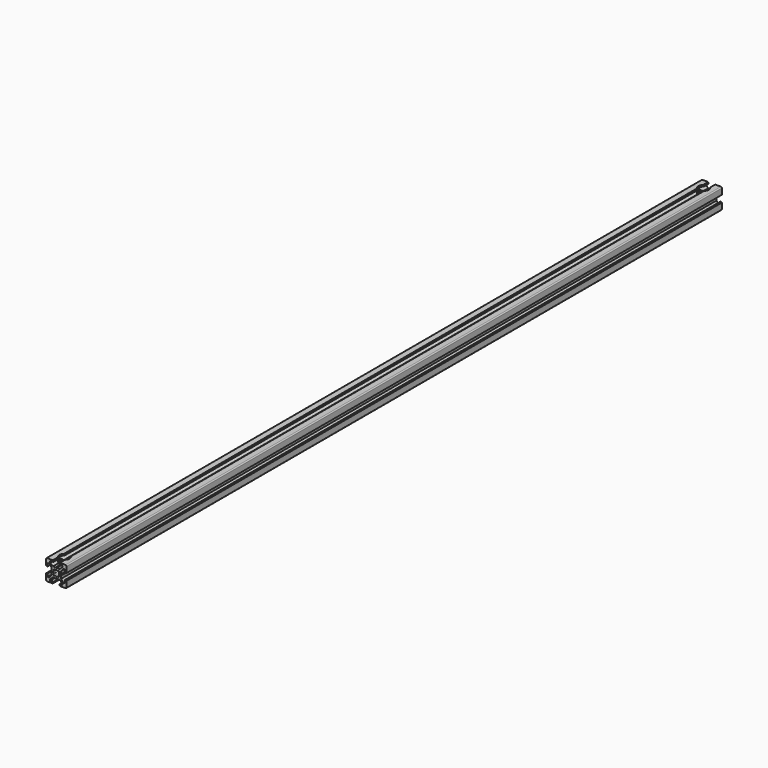
from build123d import *

# Parameters (mm, degrees)
PAD_DEPTH          = 800
POCKET_DEPTH       = 800
POLARPATTERN_COUNT = 4
POCKET001_DEPTH    = 800
SKETCH003_R        = 3.1
POCKET002_DEPTH    = 20
SKETCH004_R        = 5
POCKET003_DEPTH    = 5


with BuildPart() as part:
    # Sketch → Pad (new body)
    with BuildSketch(Plane(origin=(0, 0, 0), x_dir=(-1, 0, 0), z_dir=(0, 1, 0))):
        with BuildLine():
            Line((-9, 10), (9, 10))
            ThreePointArc((10, 9), (9.707107, 9.707107), (9, 10))
            Line((10, 9), (10, -9))
            ThreePointArc((9, -10), (9.707107, -9.707107), (10, -9))
            Line((9, -10), (-9, -10))
            ThreePointArc((-10, -9), (-9.707107, -9.707107), (-9, -10))
            Line((-10, -9), (-10, 9))
            ThreePointArc((-9, 10), (-9.707107, 9.707107), (-10, 9))
        make_face()
    extrude(amount=PAD_DEPTH)

    # Sketch001 (on Face10 of Pad) → Pocket (cut)
    with BuildSketch(Plane(origin=(0, 800, 0), x_dir=(1, 0, 0), z_dir=(0, 1, 0))):
        Polygon((-3.4, 10), (-3.4, 9.6), (-3, 9.6), (-3, 8.5), (-6, 8.5), (-6, 7), (-3.35, 4.7), (-0.65, 4.7), (0, 4.3), (0.65, 4.7), (3.35, 4.7), (6, 7), (6, 8.5), (3, 8.5), (3, 9.6), (3.4, 9.6), (3.4, 10), align=None)
    pocket = extrude(amount=-POCKET_DEPTH, mode=Mode.SUBTRACT)

    # PolarPattern: Pocket ×4 about axis
    polarpattern_axis = Axis((0, 800, 0), (0, 1, 0))
    for i in range(1, POLARPATTERN_COUNT):
        add(pocket.rotate(polarpattern_axis, i * 360 / POLARPATTERN_COUNT), mode=Mode.SUBTRACT)

    # Sketch002 (on Face4 of PolarPattern) → Pocket001 (cut)
    with BuildSketch(Plane(origin=(0, 800, 0), x_dir=(1, 0, 0), z_dir=(0, 1, 0))):
        with BuildLine():
            ThreePointArc((1.340499, 2.401159), (0, 2.75), (-1.340499, 2.401159))
            Line((-1.944544, 3.005204), (-1.340499, 2.401159))
            Line((-3.005204, 1.944544), (-1.944544, 3.005204))
            Line((-2.401159, 1.340499), (-3.005204, 1.944544))
            ThreePointArc((-2.401159, 1.340499), (-2.75, 0), (-2.401159, -1.340499))
            Line((-3.005204, -1.944544), (-2.401159, -1.340499))
            Line((-1.944544, -3.005204), (-3.005204, -1.944544))
            Line((-1.340499, -2.401159), (-1.944544, -3.005204))
            ThreePointArc((-1.340499, -2.401159), (0, -2.75), (1.340499, -2.401159))
            Line((1.944544, -3.005204), (1.340499, -2.401159))
            Line((3.005204, -1.944544), (1.944544, -3.005204))
            Line((2.401159, -1.340499), (3.005204, -1.944544))
            ThreePointArc((2.401159, -1.340499), (2.75, 0), (2.401159, 1.340499))
            Line((2.401159, 1.340499), (3.005204, 1.944544))
            Line((3.005204, 1.944544), (1.944544, 3.005204))
            Line((1.944544, 3.005204), (1.340499, 2.401159))
        make_face()
    extrude(amount=-POCKET001_DEPTH, mode=Mode.SUBTRACT)

    # Sketch003 (on Face76 of Pocket001) → Pocket002 (cut)
    with BuildSketch(Plane(origin=(0, 0, 10), x_dir=(-1, 0, 0), z_dir=(0, 0, 1))):
        with Locations((0, -10)):
            Circle(SKETCH003_R)
        with Locations((0, -790)):
            Circle(SKETCH003_R)
    extrude(amount=-POCKET002_DEPTH, mode=Mode.SUBTRACT)

    # Sketch004 (on Face42 of Pocket002) → Pocket003 (cut)
    with BuildSketch(Plane(origin=(0, 0, 10), x_dir=(-1, 0, 0), z_dir=(0, 0, 1))):
        with Locations((0, -10)):
            Circle(SKETCH004_R)
        with Locations((0, -790)):
            Circle(SKETCH004_R)
    extrude(amount=-POCKET003_DEPTH, mode=Mode.SUBTRACT)


solid = part.part
